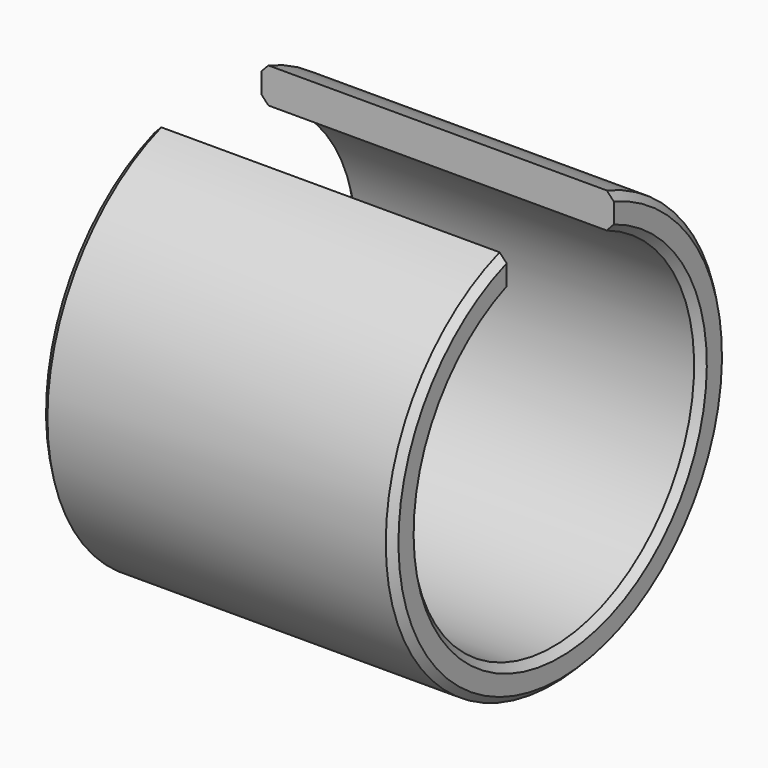
from build123d import *

# Parameters (mm, degrees)
F1_DEPTH = 25.4
F2_SIZE  = 1.016


with BuildPart() as f1:
    # F0 (on Right) → F1 (new body, symmetric)
    with BuildSketch(Plane.YZ):
        with BuildLine():
            Line((-9.652, 23.494657), (-9.652, 28.576482))
            ThreePointArc((-9.652, 28.576482), (0, -30.1625), (9.652, 28.576482))
            Line((9.652, 28.576482), (9.652, 23.494657))
            ThreePointArc((9.652, 23.494657), (0, -25.4), (-9.652, 23.494657))
        make_face()
    extrude(amount=F1_DEPTH, both=True)

    # F2
    f2_edges = [f1.edges().sort_by_distance(p)[0] for p in [
        (25.4, 0, -30.1625),
        (25.4, 0, -25.4),
        (-25.4, 0, -30.1625),
        (-25.4, 0, -25.4),
    ]]
    chamfer(f2_edges, length=F2_SIZE)


solid = f1.part
